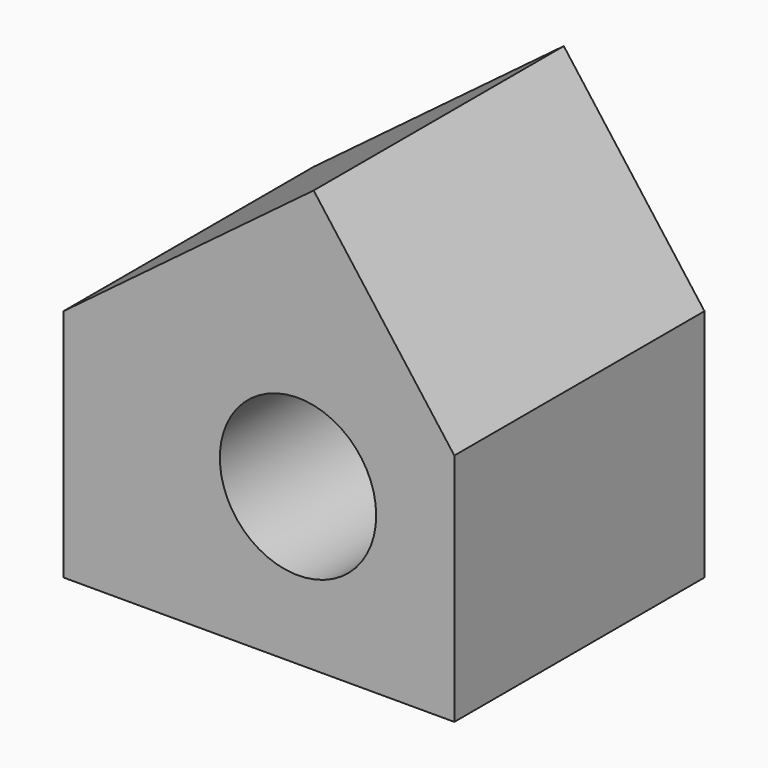
from build123d import *

# Parameters (mm, degrees)
F0_W     = 63.5
F0_H     = 38.1
F1_DEPTH = 25.4
F2_R     = 12.7
F3_DEPTH = 25.4


with BuildPart() as f1:
    # F0 (on Front) → F1 (new body)
    with BuildSketch(Plane.XZ):
        Polygon((40.64, 68.58), (0, 38.1), (63.5, 38.1), align=None)
        with Locations((31.75, 19.05)):
            Rectangle(F0_W, F0_H)
    extrude(amount=F1_DEPTH)

    # F2 (on face) → F3 (join)
    with BuildSketch(Plane.XZ.offset(25.4)):
        Polygon((63.5, 38.1), (40.64, 68.58), (0, 38.1), (0, 0), (63.5, 0), align=None)
        with Locations((38.1, 25.4)):
            Circle(F2_R, mode=Mode.SUBTRACT)
    extrude(amount=F3_DEPTH)


solid = f1.part
